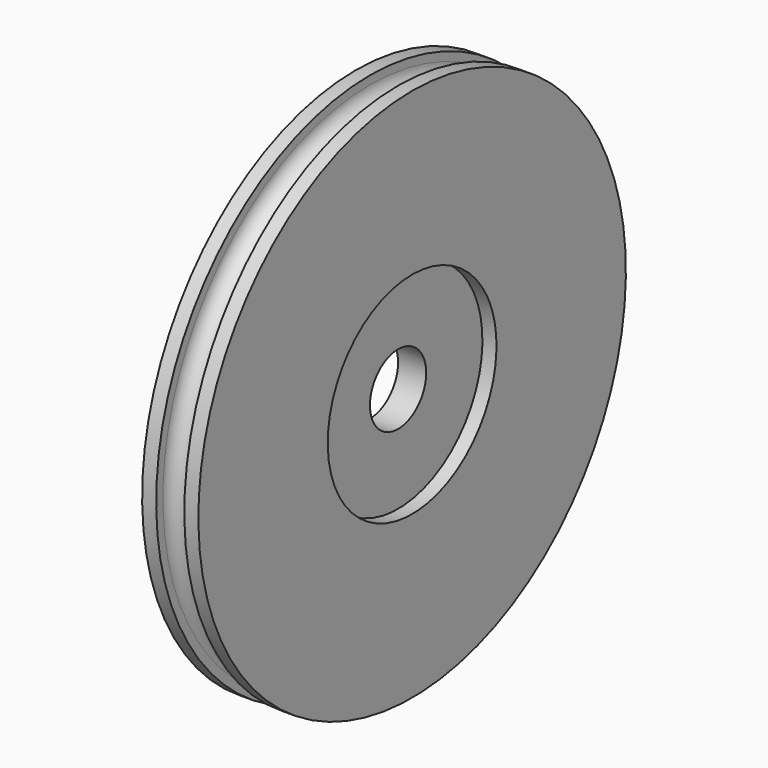
from build123d import *

# Parameters (mm, degrees)
F3_START = -5
F2_R     = 37.5
F2_R_2   = 12.5
F3_DEPTH = 10


with BuildPart() as f1:
    # F0 (on Front) → F1 (revolve)
    with BuildSketch(Plane.XZ):
        with BuildLine():
            Line((0, 95), (0, 37.5))
            Line((0, 37.5), (20, 37.5))
            Line((20, 37.5), (20, 95))
            Line((20, 95), (15, 95))
            Line((15, 95), (15, 92))
            ThreePointArc((15, 92), (10, 87), (5, 92))
            Line((5, 92), (5, 95))
            Line((5, 95), (0, 95))
        make_face()
    revolve(axis=Axis((28.1461849809, 0, 0), (1, 0, 0)))

    # F2 (on face) → F3 (join)
    with BuildSketch(Plane.YZ.offset(20).offset(F3_START)):
        Circle(F2_R)
        Circle(F2_R_2, mode=Mode.SUBTRACT)
    extrude(amount=-F3_DEPTH)


solid = f1.part
